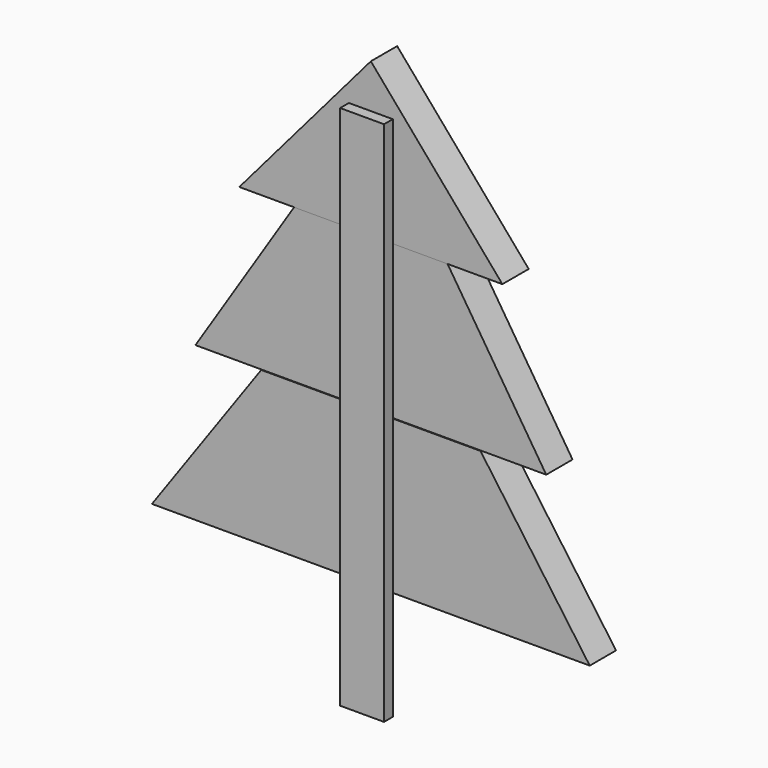
from build123d import *

# Parameters (mm, degrees)
F1_DEPTH = 19.05
F3_DEPTH = 19.05
F5_DEPTH = 19.05
F7_DEPTH = 6.35


with BuildPart() as f1:
    # F0 (on Front) → F1 (new body)
    with BuildSketch(Plane.XZ):
        Polygon((-76.2, 0), (0, 0), (76.2, 0), (0, 88.9), align=None)
    extrude(amount=-F1_DEPTH)


with BuildPart() as f3:
    # F2 (on face) → F3 (new body)
    with BuildSketch(Plane(origin=(0, 19.05, 0), x_dir=(-1, 0, 0), z_dir=(0, 1, 0))):
        Polygon((44.45, 0), (-44.45, 0), (-101.6, -88.9), (0, -88.9), (101.6, -88.9), align=None)
    extrude(amount=-F3_DEPTH)


with BuildPart() as f5:
    # F4 (on Front) → F5 (new body)
    with BuildSketch(Plane.XZ):
        Polygon((63.5, -89.173857), (-63.5, -89.173857), (-126.804988, -178.073857), (0, -178.073857), (126.804988, -178.073857), align=None)
    extrude(amount=-F5_DEPTH)


with BuildPart() as f7:
    # F6 (on Front) → F7 (new body)
    with BuildSketch(Plane.XZ):
        Polygon((12.7, 63.5), (0, 63.5), (-12.7, 63.5), (-12.7, -241.3), (0, -241.3), (12.7, -241.3), align=None)
    extrude(amount=F7_DEPTH)


solid = Compound([f1.part, f3.part, f5.part, f7.part])
